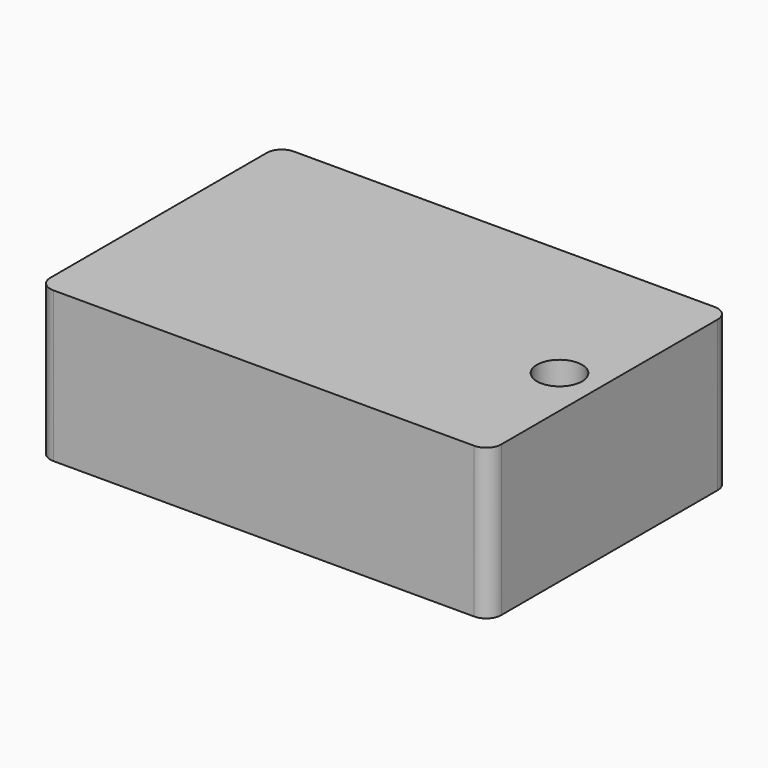
from build123d import *

# Parameters (mm, degrees)
F0_W     = 300
F0_H     = 200
F0_R     = 15
F1_DEPTH = 100
F2_R     = 10
F3_R     = 10


with BuildPart() as f1:
    # F0 (on Top) → F1 (new body)
    with BuildSketch(Plane.XY):
        with Locations((0.98262, 28.337172)):
            Rectangle(F0_W, F0_H)
        with Locations((124.483064, 19.88738)):
            Circle(F0_R, mode=Mode.SUBTRACT)
    extrude(amount=F1_DEPTH)

    # F2
    f2_edges = [f1.edges().sort_by_distance(p)[0] for p in [
        (-149.01738, 128.337172, 50),
    ]]
    fillet(f2_edges, radius=F2_R)

    # F3
    f3_edges = [f1.edges().sort_by_distance(p)[0] for p in [
        (150.98262, 128.337172, 50),
        (150.98262, -71.662828, 50),
        (-149.01738, -71.662828, 50),
    ]]
    fillet(f3_edges, radius=F3_R)


solid = f1.part
